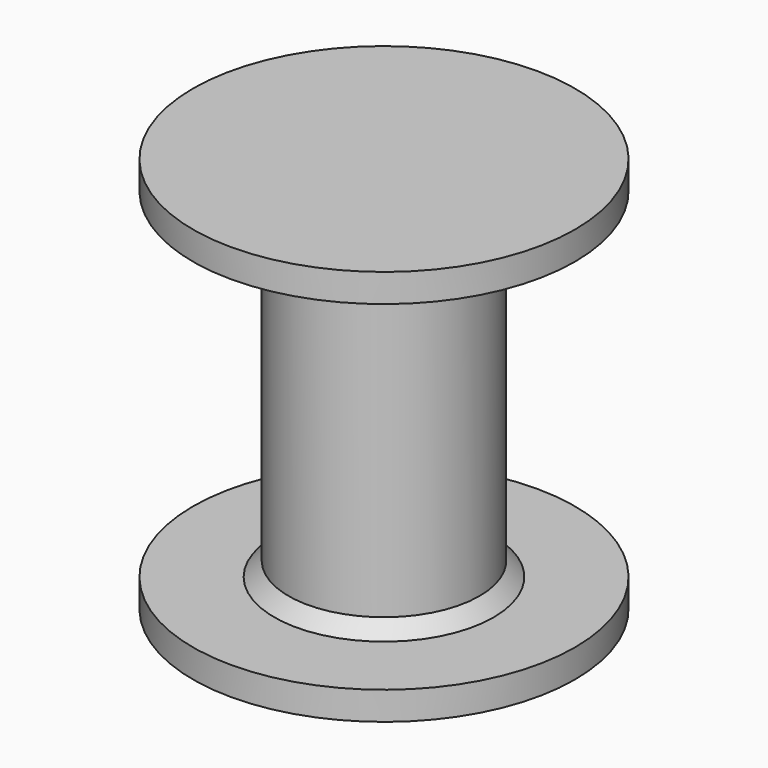
from build123d import *

# Parameters (mm, degrees)
SKETCH_R        = 13.5
SKETCH_R_2      = 6.75
PAD_DEPTH       = 1
SKETCH001_R     = 13.5
PAD001_DEPTH    = 1
SKETCH002_R     = 6.75
PAD002_DEPTH    = 25
POCKET_DEPTH    = 30
FILLET_R        = 1
SKETCH004_R     = 13.5
PAD003_DEPTH    = 2
CHAMFER_SIZE    = 1
CHAMFER001_SIZE = 0.5
CHAMFER002_SIZE = 0.5


with BuildPart() as part:
    # Sketch → Pad (new body)
    with BuildSketch(Plane.XY):
        Circle(SKETCH_R)
        Circle(SKETCH_R_2, mode=Mode.SUBTRACT)
    extrude(amount=-PAD_DEPTH)

    # Sketch001 → Pad001 (join)
    with BuildSketch(Plane.XY):
        Circle(SKETCH001_R)
    extrude(amount=PAD001_DEPTH)

    # Sketch002 → Pad002 (join)
    with BuildSketch(Plane.XY):
        Circle(SKETCH002_R)
    extrude(amount=PAD002_DEPTH)

    # Sketch003 → Pocket (cut)
    with BuildSketch(Plane.XY):
        Polygon((-5.629165, 3.25), (5.629165, 3.25), (0, -6.5), align=None)
    extrude(amount=POCKET_DEPTH, mode=Mode.SUBTRACT)

    # Fillet
    fillet_edges = [part.edges().sort_by_distance(p)[0] for p in [
        (5.629165, 3.25, 12.5),
        (-5.629165, 3.25, 12.5),
        (0, -6.5, 12.5),
    ]]
    fillet(fillet_edges, radius=FILLET_R)

    # Sketch004 (on DatumPlane) → Pad003 (join)
    with BuildSketch(Plane.XY.offset(25)):
        Circle(SKETCH004_R)
    extrude(amount=PAD003_DEPTH)

    # Chamfer
    chamfer_edges = [part.edges().sort_by_distance(p)[0] for p in [
        (-6.75, 0, 1),
        (-6.75, 0, 25),
    ]]
    chamfer(chamfer_edges, length=CHAMFER_SIZE)

    # Chamfer001
    chamfer001_edges = [part.edges().sort_by_distance(p)[0] for p in [
        (-6.75, 0, -1),
    ]]
    chamfer(chamfer001_edges, length=CHAMFER001_SIZE)

    # Chamfer002
    chamfer002_edges = [part.edges().sort_by_distance(p)[0] for p in [
        (2.814583, -1.625, 0),
    ]]
    chamfer(chamfer002_edges, length=CHAMFER002_SIZE)


solid = part.part
